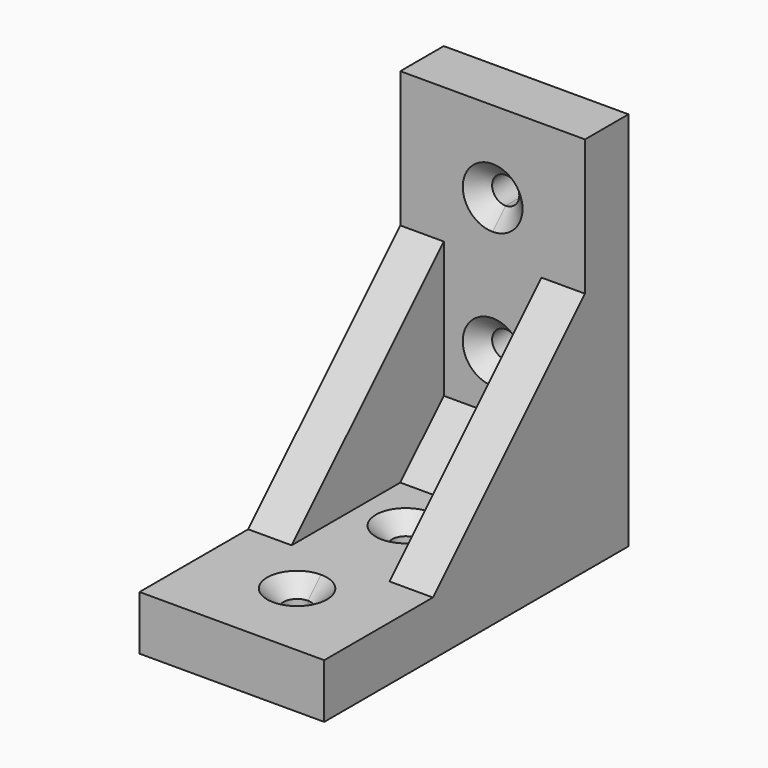
from build123d import *

# Parameters (mm, degrees)
F1_DEPTH  = 17
F3_DEPTH  = 25
F6_DEPTH  = 25
F8_SIZE   = 3
F9_W      = 25
F9_H      = 10
F10_DEPTH = 4


with BuildPart() as f1:
    # F0 (on Right) → F1 (new body, symmetric)
    with BuildSketch(Plane.YZ):
        Polygon((-70, 0), (0, 0), (0, 70), (-10, 70), (-10, 20), (-20, 10), (-70, 10), align=None)
    extrude(amount=F1_DEPTH, both=True)


with BuildPart() as f3:
    # F2 (on Front) → F3 (new body)
    with BuildSketch(Plane.XZ):
        with BuildLine():
            ThreePointArc((0, 32.5), (-2.5, 30), (0, 27.5))
            Line((0, 27.5), (0, 30))
            Line((0, 30), (0, 32.5))
        make_face()
        with BuildLine():
            Line((0, 30), (0, 27.5))
            ThreePointArc((0, 27.5), (1.767766953, 28.232233047), (2.5, 30))
            ThreePointArc((2.5, 30), (1.767766953, 31.767766953), (0, 32.5))
            Line((0, 32.5), (0, 30))
        make_face()
    extrude(amount=F3_DEPTH)


with BuildPart() as f3b:
    # F2 (on Front) → F3, piece 2 (new body)
    with BuildSketch(Plane.XZ):
        with BuildLine():
            ThreePointArc((2.5, 55), (-1.767766953, 56.767766953), (0, 52.5))
            ThreePointArc((0, 52.5), (1.767766953, 53.232233047), (2.5, 55))
        make_face()
    extrude(amount=F3_DEPTH)


with BuildPart() as f1_1:
    add(f1.part)

    # F4: cut F3b, F3
    add(f3b.part, mode=Mode.SUBTRACT)
    add(f3.part, mode=Mode.SUBTRACT)


with BuildPart() as f6:
    # F5 (on Top) → F6 (new body)
    with BuildSketch(Plane.XY):
        with BuildLine():
            ThreePointArc((2.5, -30), (1.767766953, -28.232233047), (0, -27.5))
            Line((0, -27.5), (0, -30))
            Line((0, -30), (0, -32.5))
            ThreePointArc((0, -32.5), (1.767766953, -31.767766953), (2.5, -30))
        make_face()
        with BuildLine():
            Line((0, -30), (0, -27.5))
            ThreePointArc((0, -27.5), (-2.5, -30), (0, -32.5))
            Line((0, -32.5), (0, -30))
        make_face()
    extrude(amount=F6_DEPTH)


with BuildPart() as f6b:
    # F5 (on Top) → F6, piece 2 (new body)
    with BuildSketch(Plane.XY):
        with BuildLine():
            ThreePointArc((2.5, -55), (1.767766953, -53.232233047), (0, -52.5))
            ThreePointArc((0, -52.5), (-1.767766953, -56.767766953), (2.5, -55))
        make_face()
    extrude(amount=F6_DEPTH)


with BuildPart() as f1_2:
    add(f1_1.part)

    # F7: cut F6, F6b
    add(f6.part, mode=Mode.SUBTRACT)
    add(f6b.part, mode=Mode.SUBTRACT)

    # F8
    f8_edges = [f1_2.edges().sort_by_distance(p)[0] for p in [
        (-2.5, -30, 10),
        (-2.5, -55, 10),
        (0, -10, 32.5),
        (0, -10, 57.5),
    ]]
    chamfer(f8_edges, length=F8_SIZE)



with BuildPart() as f10:
    # F9 (on Right) → F10 (new body, symmetric)
    with BuildSketch(Plane.YZ):
        Polygon((-45, 0), (0, 0), (0, 70), (-10, 70), (-10, 45), (-45, 10), align=None)
        with Locations((-57.5, 5)):
            Rectangle(F9_W, F9_H)
    extrude(amount=F10_DEPTH, both=True)


with BuildPart() as f10_1:
    # F11: moved
    add(f10.part.moved(Location((13, 0, 0))))


with BuildPart() as f1_3:
    add(f1_2.part)

    add(f10_1.part)  # F12 merges F10
    # F12: F10 across plane
    add(f10_1.part.mirror(Plane.YZ))


solid = f1_3.part
